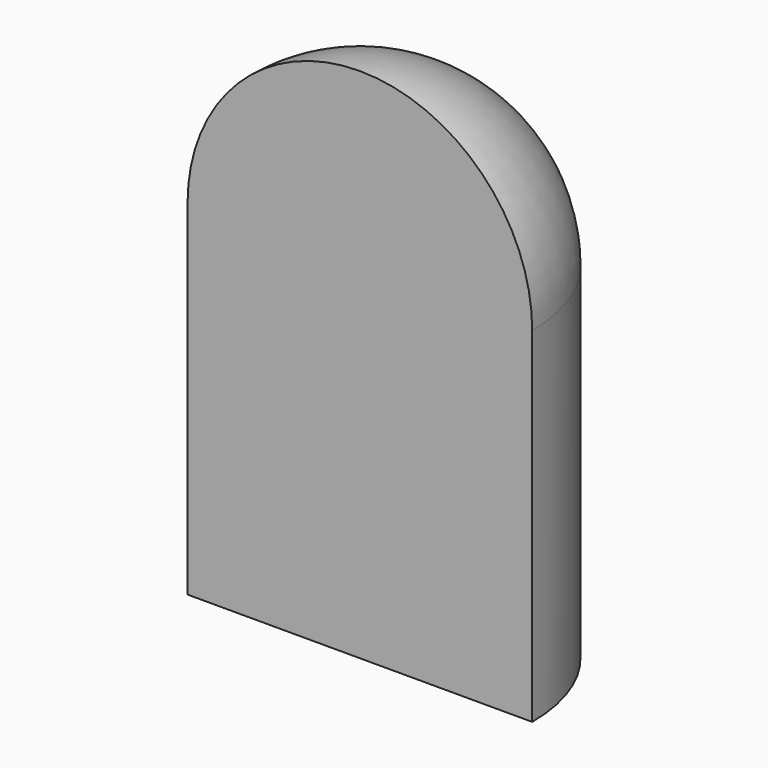
from build123d import *

# Parameters (mm, degrees)
F1_ANGLE = 180


with BuildPart() as f1:
    # F0 (on Front) → F1 (revolve)
    with BuildSketch(Plane.XZ):
        with BuildLine():
            Line((5, -10), (5, 0))
            ThreePointArc((5, 0), (3.535534, 3.535534), (0, 5))
            Line((0, 5), (0, -10))
            Line((0, -10), (5, -10))
        make_face()
    revolve(axis=Axis((0, 0, -2.5), (0, 0, 1)), revolution_arc=F1_ANGLE)


solid = f1.part
